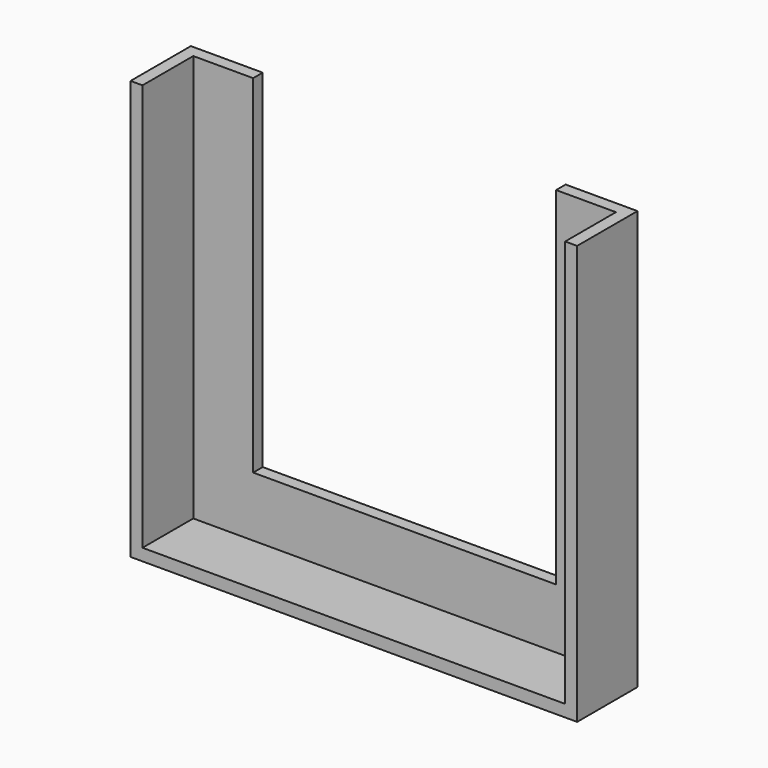
from build123d import *

# Parameters (mm, degrees)
F0_W     = 353
F0_H     = 10
F1_DEPTH = 53
F2_W     = 10
F2_H     = 350
F3_DEPTH = 63
F5_DEPTH = 10


with BuildPart() as f1:
    # F0 (on Front) → F1 (new body)
    with BuildSketch(Plane.XZ):
        with Locations((176.5, 5)):
            Rectangle(F0_W, F0_H)
    extrude(amount=F1_DEPTH)

    # F2 (on face) → F3 (join)
    with BuildSketch(Plane.XZ.offset(53)):
        with Locations((358, 175)):
            Rectangle(F2_W, F2_H)
        with Locations((-5, 175)):
            Rectangle(F2_W, F2_H)
    extrude(amount=-F3_DEPTH)

    # F4 (on face) → F5 (join)
    with BuildSketch(Plane(origin=(0, 0, 0), x_dir=(-1, 0, 0), z_dir=(0, 1, 0))):
        Polygon((-353, 0), (0, 0), (0, 350), (-50, 350), (-50, 60), (-303, 60), (-303, 350), (-353, 350), align=None)
    extrude(amount=F5_DEPTH)


solid = f1.part
